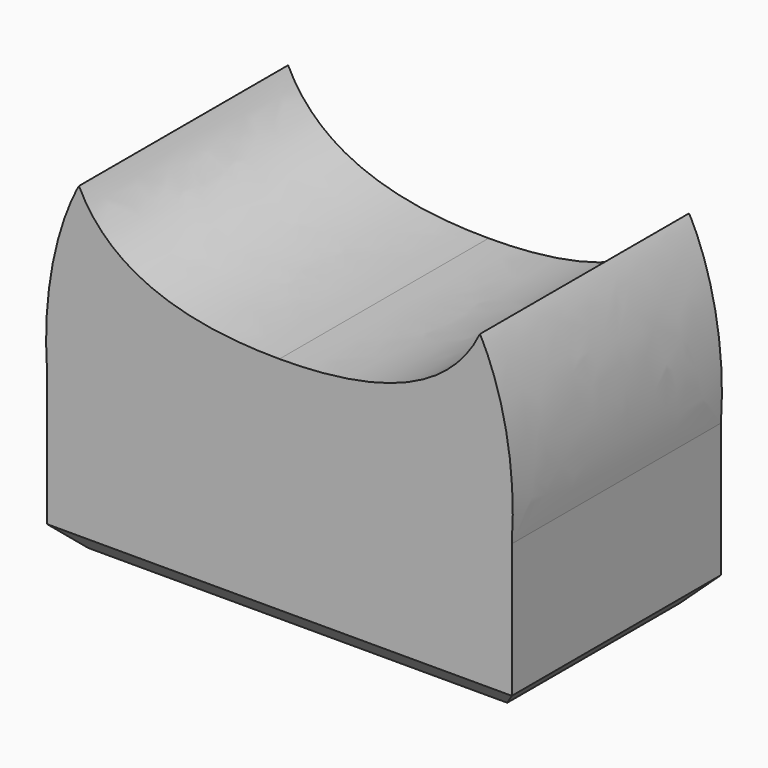
from build123d import *

# Parameters (mm, degrees)
PAD_DEPTH        = 11.43
MIRRORED_FACE5_W = 11.43
MIRRORED_FACE5_H = 20.32
PAD001_DEPTH     = 6.85
SKETCH001_W      = 4.191
SKETCH001_H      = 1.778
POCKET_DEPTH     = 10.16
CHAMFER_SIZE     = 1


with BuildPart() as part:
    # Sketch → Pad (new body)
    with BuildSketch(Plane.XZ):
        with BuildLine():
            Line((0, 0), (-10.16, 0))
            add(Edge.make_bspline(
                [(-10.16, 0), (-10.491854, 4.757151), (-8.764645, 7.62), (-8.764645, 7.62)],
                knots=[0, 0, 0, 0, 1, 1, 1, 1], degree=3))
            add(Edge.make_bspline(
                [(-8.764645, 7.62), (-6.92736, 3.81), (0, 3.81)],
                knots=[0, 0, 0, 1, 1, 1], degree=2))
            Line((0, 3.81), (0, 0))
        make_face()
    extrude(amount=PAD_DEPTH)

    # Mirrored: part across YZ


with BuildPart() as part_1:
    add(part.part)
    add(part.part.mirror(Plane.YZ))

    # Mirrored Face5 → Pad001 (add)
    with BuildSketch(Plane(origin=(0, -5.715, 0), x_dir=(0, -1, 0), z_dir=(0, 0, -1))):
        Rectangle(MIRRORED_FACE5_W, MIRRORED_FACE5_H)
    extrude(amount=PAD001_DEPTH)

    # Sketch001 (on Face4 of Pad001) → Pocket (cut)
    with BuildSketch(Plane(origin=(0, 0, -6.85), x_dir=(1, 0, 0), z_dir=(0, 0, -1))):
        with Locations((0, 5.715)):
            Rectangle(SKETCH001_W, SKETCH001_H)
    extrude(amount=-POCKET_DEPTH, mode=Mode.SUBTRACT)

    # Chamfer
    chamfer_edges = [part_1.edges().sort_by_distance(p)[0] for p in [
        (0, 0, -6.85),
        (10.16, -5.715, -6.85),
        (0, -11.43, -6.85),
        (-10.16, -5.715, -6.85),
    ]]
    chamfer(chamfer_edges, length=CHAMFER_SIZE)


solid = part_1.part
